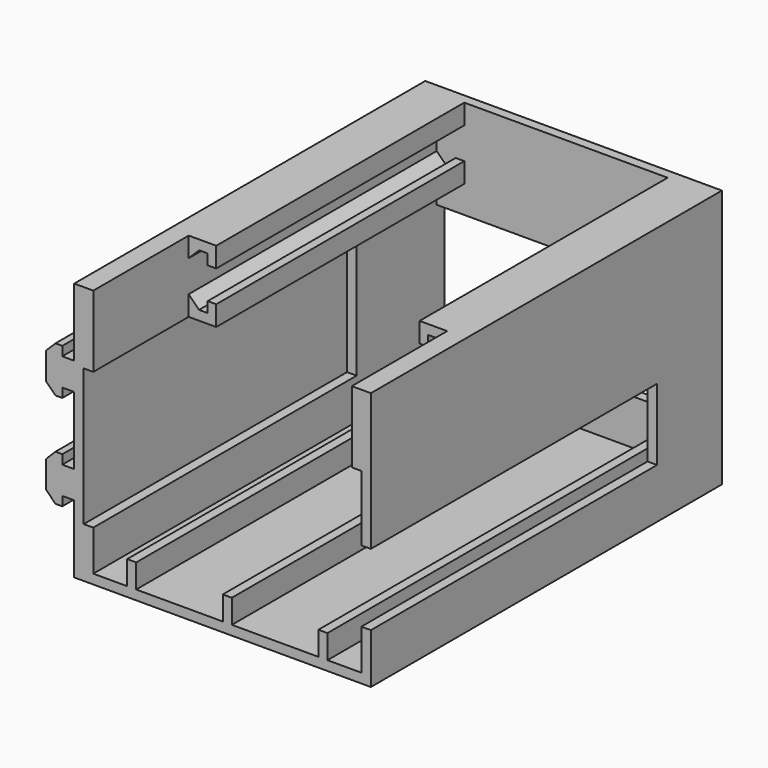
from build123d import *

# Parameters (mm, degrees)
SKETCH_W        = 1.9
SKETCH_H        = 5
PAD_DEPTH       = 90
SKETCH001_W     = 2
SKETCH001_H     = 69
SKETCH001_H_2   = 73
POCKET_DEPTH    = 5
SKETCH002_W     = 60.2
SKETCH002_H     = 11.5
PAD001_DEPTH    = 2
SKETCH004_W     = 2
SKETCH004_H     = 2
PAD002_DEPTH    = 4
PAD003_DEPTH    = 92
SKETCH006_W     = 2
SKETCH006_H     = 73
PAD004_DEPTH    = 5
SKETCH007_W     = 2
SKETCH007_H     = 92
PAD005_DEPTH    = 38.74
SKETCH008_W     = 15
SKETCH008_H     = 75
POCKET001_DEPTH = 2
SKETCH009_W     = 2
SKETCH009_H     = 23
PAD006_DEPTH    = 38.74
SKETCH010_W     = 56.2
SKETCH010_H     = 2
PAD007_DEPTH    = 42.74
SKETCH011_W     = 56.2
SKETCH011_H     = 22
POCKET002_DEPTH = 2
SKETCH012_W     = 2
SKETCH012_H     = 15
PAD008_DEPTH    = 69
SKETCH013_W     = 2
SKETCH013_H     = 15
PAD009_DEPTH    = 90
PAD010_DEPTH    = 65


with BuildPart() as part:
    # Sketch → Pad (new body)
    with BuildSketch(Plane.XZ):
        Polygon((-30.1, 0), (30.1, 0), (30.1, 15.5), (28.1, 15.5), (28.1, 2), (-28.1, 2), (-28.1, 15.5), (-30.1, 15.5), align=None)
        with Locations((0, 4.5)):
            Rectangle(SKETCH_W, SKETCH_H)
        with Locations((-20.05, 4.5)):
            Rectangle(SKETCH_W, SKETCH_H)
        with Locations((20.05, 4.5)):
            Rectangle(SKETCH_W, SKETCH_H)
    extrude(amount=PAD_DEPTH)

    # Sketch001 (on Face3 of Pad) → Pocket (cut)
    with BuildSketch(Plane(origin=(0, 0, 15.5), x_dir=(-1, 0, 0), z_dir=(0, 0, 1))):
        with Locations((29.1, 55.5)):
            Rectangle(SKETCH001_W, SKETCH001_H)
        with Locations((-29.1, 53.5)):
            Rectangle(SKETCH001_W, SKETCH001_H_2)
    extrude(amount=-POCKET_DEPTH, mode=Mode.SUBTRACT)

    # Sketch002 (on Face2 of Pocket) → Pad001 (join)
    with BuildSketch(Plane(origin=(0, 0, 0), x_dir=(1, 0, 0), z_dir=(0, 1, 0))):
        with Locations((0, -5.75)):
            Rectangle(SKETCH002_W, SKETCH002_H)
    extrude(amount=PAD001_DEPTH)

    # Sketch004 → Pad002 (join)
    with BuildSketch(Plane(origin=(0, 0, 11.5), x_dir=(-1, 0, 0), z_dir=(0, 0, 1))):
        with Locations((-29.1, -1)):
            Rectangle(SKETCH004_W, SKETCH004_H)
        with Locations((29.1, -1)):
            Rectangle(SKETCH004_W, SKETCH004_H)
    extrude(amount=PAD002_DEPTH)

    # Sketch005 (on Face26 of Pad002) → Pad003 (join)
    with BuildSketch(Plane(origin=(0, 2, 0), x_dir=(1, 0, 0), z_dir=(0, 1, 0))):
        Polygon((-30.1, -54.24), (-30.1, 0), (-32.1, 0), (-32.1, -14.24), (-34.6, -14.24), (-34.6, -12.31), (-36.03, -12.31), (-37.995757, -14.275757), (-37.995757, -19.965757), (-36.03, -21.931514), (-34.6, -21.931514), (-34.6, -20), (-32.1, -20), (-32.1, -34.24), (-34.6, -34.24), (-34.6, -32.31), (-36.03, -32.31), (-37.995757, -34.275757), (-37.995757, -39.965757), (-36.03, -41.931514), (-34.6, -41.931514), (-34.6, -40.001514), (-32.1, -40.001514), (-32.1, -54.24), align=None)
    extrude(amount=-PAD003_DEPTH)

    # Sketch006 (on Face46 of Pad003) → Pad004 (join)
    with BuildSketch(Plane(origin=(0, 0, 10.5), x_dir=(-1, 0, 0), z_dir=(0, 0, 1))):
        with Locations((-29.1, 53.5)):
            Rectangle(SKETCH006_W, SKETCH006_H)
    extrude(amount=PAD004_DEPTH)

    # Sketch007 (on Face48 of Pad004) → Pad005 (join)
    with BuildSketch(Plane(origin=(0, 0, 15.5), x_dir=(-1, 0, 0), z_dir=(0, 0, 1))):
        with Locations((-29.1, 44)):
            Rectangle(SKETCH007_W, SKETCH007_H)
    extrude(amount=PAD005_DEPTH)

    # Sketch008 (on Face48 of Pad005) → Pocket001 (cut)
    with BuildSketch(Plane(origin=(30.1, 0, 0), x_dir=(0, 0, 1), z_dir=(1, 0, 0))):
        with Locations((18, 52.5)):
            Rectangle(SKETCH008_W, SKETCH008_H)
    extrude(amount=-POCKET001_DEPTH, mode=Mode.SUBTRACT)

    # Sketch009 (on Face51 of Pocket001) → Pad006 (join)
    with BuildSketch(Plane(origin=(0, 0, 15.5), x_dir=(-1, 0, 0), z_dir=(0, 0, 1))):
        with Locations((29.1, 9.5)):
            Rectangle(SKETCH009_W, SKETCH009_H)
    extrude(amount=PAD006_DEPTH)

    # Sketch010 (on Face17 of Pad006) → Pad007 (join)
    with BuildSketch(Plane(origin=(0, 0, 11.5), x_dir=(-1, 0, 0), z_dir=(0, 0, 1))):
        with Locations((0, -1)):
            Rectangle(SKETCH010_W, SKETCH010_H)
    extrude(amount=PAD007_DEPTH)

    # Sketch011 (on Face47 of Pad007) → Pocket002 (cut)
    with BuildSketch(Plane.XZ):
        with Locations((0, 22.5)):
            Rectangle(SKETCH011_W, SKETCH011_H)
    extrude(amount=-POCKET002_DEPTH, mode=Mode.SUBTRACT)

    # Sketch012 (on Face49 of Pocket002) → Pad008 (join)
    with BuildSketch(Plane.XZ.offset(21)):
        with Locations((-29.1, 46.74)):
            Rectangle(SKETCH012_W, SKETCH012_H)
    extrude(amount=PAD008_DEPTH)

    # Sketch013 (on Face26 of Pad008) → Pad009 (join)
    with BuildSketch(Plane.XZ):
        with Locations((27.1, 46.74)):
            Rectangle(SKETCH013_W, SKETCH013_H)
    extrude(amount=PAD009_DEPTH)

    # Sketch014 (on Face45 of Pad009) → Pad010 (join)
    with BuildSketch(Plane.XZ):
        Polygon((20.32, 39.24), (20.32, 43.44), (22.12, 43.44), (22.12, 41.24), (23.92, 41.24), (26.118204, 43.44), (26.118204, 39.24), align=None)
        Polygon((20.32, 54.24), (20.32, 50.04), (22.12, 50.04), (22.12, 52.24), (23.92, 52.24), (26.118204, 50.04), (26.118204, 54.24), align=None)
        Polygon((-22.32, 43.44), (-22.32, 39.24), (-28.12, 39.24), (-28.12, 43.438204), (-25.92, 41.24), (-24.12, 41.24), (-24.12, 43.44), align=None)
        Polygon((-22.32, 54.24), (-22.32, 50.04), (-24.12, 50.04), (-24.12, 52.24), (-25.92, 52.24), (-28.118204, 50.04), (-28.118204, 54.24), align=None)
    extrude(amount=PAD010_DEPTH)


solid = part.part
